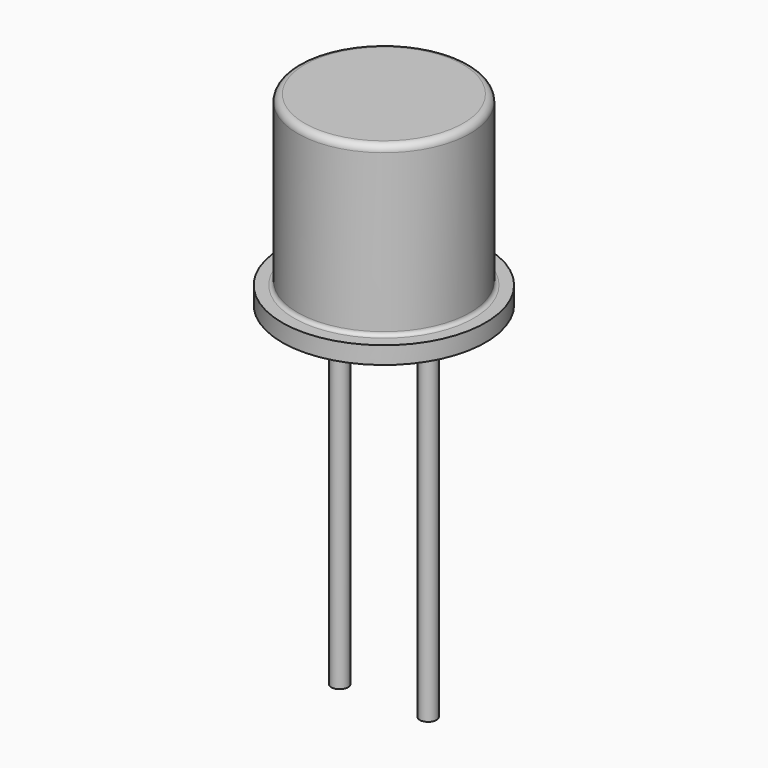
from build123d import *

# Parameters (mm, degrees)
SKETCH_R     = 0.24
PAD_DEPTH    = 10
SKETCH001_R  = 0.24
PAD002_DEPTH = 10
PAD003_DEPTH = 0.5


with BuildPart() as pad:
    # Sketch → Pad (new body)
    with BuildSketch(Plane.XY.offset(5)):
        Circle(SKETCH_R)
    extrude(amount=-PAD_DEPTH)


with BuildPart() as pad002:
    # Sketch001 → Pad002 (new body)
    with BuildSketch(Plane.XY.offset(5)):
        with Locations((2.54, 0)):
            Circle(SKETCH001_R)
    extrude(amount=-PAD002_DEPTH)


with BuildPart() as revolution:
    # Sketch003 → Revolution (revolve)
    with BuildSketch(Plane.XZ):
        with BuildLine():
            Line((1.27, 5), (-1.65, 5))
            Line((-1.65, 5), (-1.65, 5.5))
            Line((-1.65, 5.5), (-1.311932, 5.502782))
            ThreePointArc((-1.311932, 5.502782), (-1.236267, 5.534672), (-1.205, 5.610597))
            Line((-1.205, 5.610597), (-1.205, 10.132333))
            ThreePointArc((-1.007333, 10.33), (-1.147105, 10.272105), (-1.205, 10.132333))
            Line((-1.007333, 10.33), (1.27, 10.33))
            Line((1.27, 10.33), (1.27, 5))
        make_face()
    revolve(axis=Axis((1.27, 0, 2.550668), (0, 0, 1)))


with BuildPart() as pad003:
    # Sketch004 → Pad003 (new body)
    with BuildSketch(Plane.XY.offset(5)):
        Polygon((1.57052, 0.30052), (-1.356902, 3.227942), (-1.957942, 2.626902), (0.96948, -0.30052), align=None)
    extrude(amount=PAD003_DEPTH)


solid = Compound([pad.part, pad002.part, revolution.part, pad003.part])
